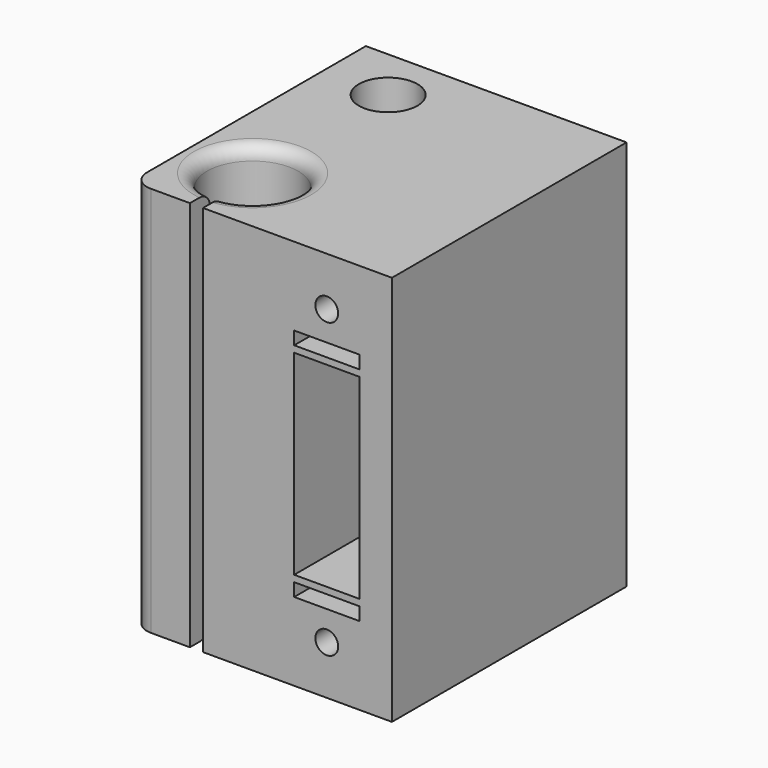
from build123d import *

# Parameters (mm, degrees)
SKETCH051_W              = 45
SKETCH051_H              = 20
SKETCH051_R              = 4.5
SKETCH051_R_2            = 7
PAD029_DEPTH             = 60
SKETCH052_W              = 4
SKETCH052_H              = 2
POCKET025_DEPTH          = 60.001
POCKET025_FACE1_W        = 45
POCKET025_FACE1_H        = 60
PAD030_DEPTH             = 20
FILLET001_R              = 3
FILLET002_R              = 2
FILLET003_R              = 2
SKETCH054_R              = 4
POCKET026_DEPTH          = 20
SKETCH053_R              = 1.75
SKETCH053_W              = 10
SKETCH053_H              = 30
SKETCH053_H_2            = 2
POCKET027_DEPTH          = 45.001
CLONE046_PLACEMENT_ANGLE = 90


with BuildPart() as part:
    # Sketch051 → Pad029 (new body)
    with BuildSketch(Plane.XY):
        Rectangle(SKETCH051_W, SKETCH051_H)
        with Locations((-14.26955, 0)):
            Circle(SKETCH051_R, mode=Mode.SUBTRACT)
        with Locations((11.73045, 0)):
            Circle(SKETCH051_R_2, mode=Mode.SUBTRACT)
    extrude(amount=PAD029_DEPTH)

    # Sketch052 (on Face8 of Pad029) → Pocket025 (cut, through all)
    with BuildSketch(Plane.XY.offset(60)):
        with Locations((20.51, 0)):
            Rectangle(SKETCH052_W, SKETCH052_H)
    extrude(amount=-POCKET025_DEPTH, mode=Mode.SUBTRACT)

    # Pocket025 Face1 → Pad030 (add)
    with BuildSketch(Plane(origin=(0, 10, 30), x_dir=(1, 0, 0), z_dir=(0, 1, 0))):
        Rectangle(POCKET025_FACE1_W, POCKET025_FACE1_H)
    extrude(amount=PAD030_DEPTH)

    # Fillet001
    fillet001_edges = [part.edges().sort_by_distance(p)[0] for p in [
        (22.5, -10, 30),
    ]]
    fillet(fillet001_edges, radius=FILLET001_R)

    # Fillet002
    fillet002_edges = [part.edges().sort_by_distance(p)[0] for p in [
        (4.73045, 0, 60),
    ]]
    fillet(fillet002_edges, radius=FILLET002_R)

    # Fillet003
    fillet003_edges = [part.edges().sort_by_distance(p)[0] for p in [
        (4.73045, 0, 0),
    ]]
    fillet(fillet003_edges, radius=FILLET003_R)

    # Sketch054 (on Face3 of Pad030) → Pocket026 (cut)
    with BuildSketch(Plane(origin=(-22.5, 0, 0), x_dir=(0, -1, 0), z_dir=(-1, 0, 0))):
        with Locations((-20, 52.5)):
            Circle(SKETCH054_R)
        with Locations((-20, 7.5)):
            Circle(SKETCH054_R)
    extrude(amount=-POCKET026_DEPTH, mode=Mode.SUBTRACT)

    # Sketch053 (on Face15 of Pad030) → Pocket027 (cut, through all)
    with BuildSketch(Plane.YZ.offset(22.5)):
        with Locations((20, 52.5)):
            Circle(SKETCH053_R)
        with Locations((20, 7.5)):
            Circle(SKETCH053_R)
        with Locations((20, 30)):
            Rectangle(SKETCH053_W, SKETCH053_H)
        with Locations((20, 47)):
            Rectangle(SKETCH053_W, SKETCH053_H_2)
        with Locations((20, 13)):
            Rectangle(SKETCH053_W, SKETCH053_H_2)
    extrude(amount=-POCKET027_DEPTH, mode=Mode.SUBTRACT)


with BuildPart() as part_1:
    # Clone046 placement: moved
    add(part.part.moved(Location((-310, -397, 92))).rotate(Axis((-310, -397, 92), (0, 0, -1)), CLONE046_PLACEMENT_ANGLE))


solid = part_1.part
